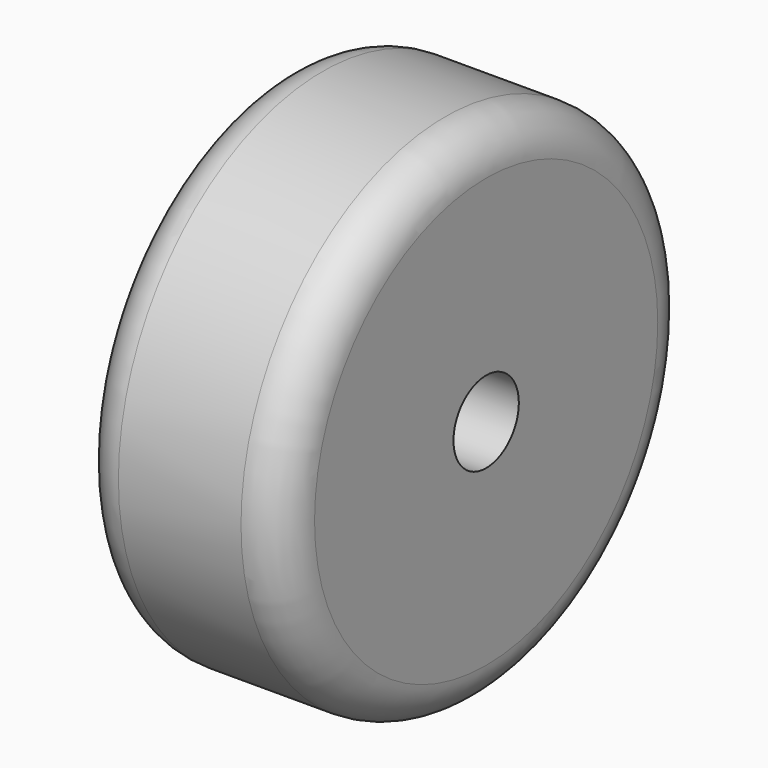
from build123d import *

# Parameters (mm, degrees)
F0_W = 20
F0_H = 15


with BuildPart() as f1:
    # F0 (on Top) → F1 (revolve)
    with BuildSketch(Plane.XY):
        with Locations((-10, 11.5)):
            Rectangle(F0_W, F0_H)
    revolve(axis=Axis((-10, 0, 0), (-1, 0, 0)))

    # F0 (on Top) → F2 (revolve)
    with BuildSketch(Plane.XY):
        with BuildLine():
            Line((-20, 19), (0, 19))
            Line((0, 19), (0, 21))
            ThreePointArc((0, 21), (-1.171573, 23.828427), (-4, 25))
            Line((-4, 25), (-16, 25))
            ThreePointArc((-16, 25), (-18.828427, 23.828427), (-20, 21))
            Line((-20, 21), (-20, 19))
        make_face()
    revolve(axis=Axis((-10, 0, 0), (-1, 0, 0)))


solid = f1.part
